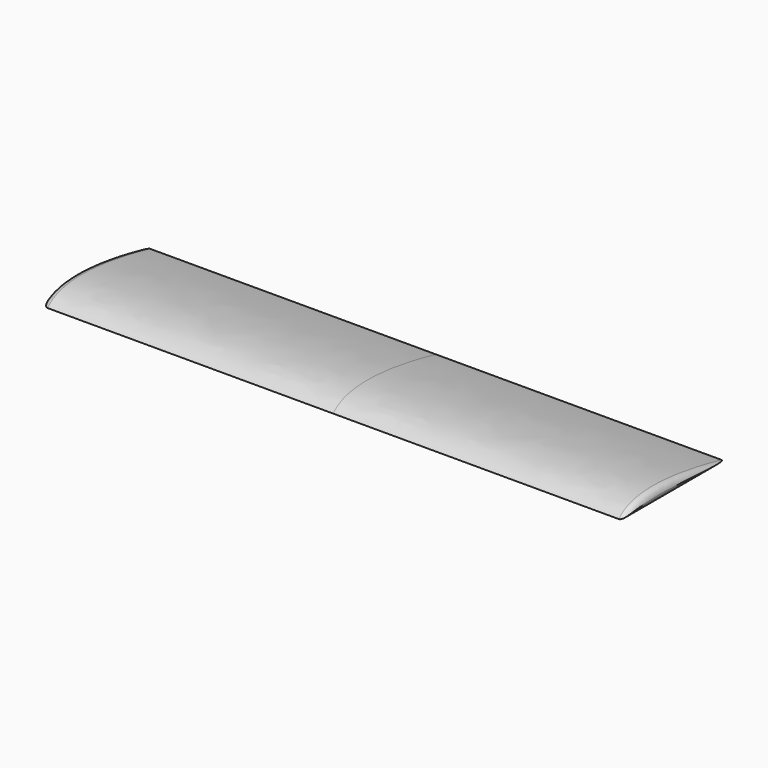
from build123d import *

# Parameters (mm, degrees)
F1_DEPTH = 177.8
F2_R     = 3.679261


with BuildPart() as f1:
    # F0 (on Right) → F1 (new body, symmetric)
    with BuildSketch(Plane.YZ):
        with BuildLine():
            add(Edge.make_bspline(
                [(-39.854605, 0), (-28.725395, 12.482763), (7.670133, 7.068553), (38.35066, 0)],
                knots=[0, 0, 0, 0, 78.205265, 78.205265, 78.205265, 78.205265], degree=3))
            Line((-39.854605, 0), (38.35066, 0))
        make_face()
    extrude(amount=F1_DEPTH, both=True)

    # F2
    f2_edges = [f1.edges().sort_by_distance(p)[0] for p in [
        (177.8, -1.344917, 6.856211),
        (177.8, -0.751972, 0),
        (-177.8, -1.344917, 6.856211),
        (-177.8, -0.751972, 0),
    ]]
    fillet(f2_edges, radius=F2_R)


solid = f1.part
